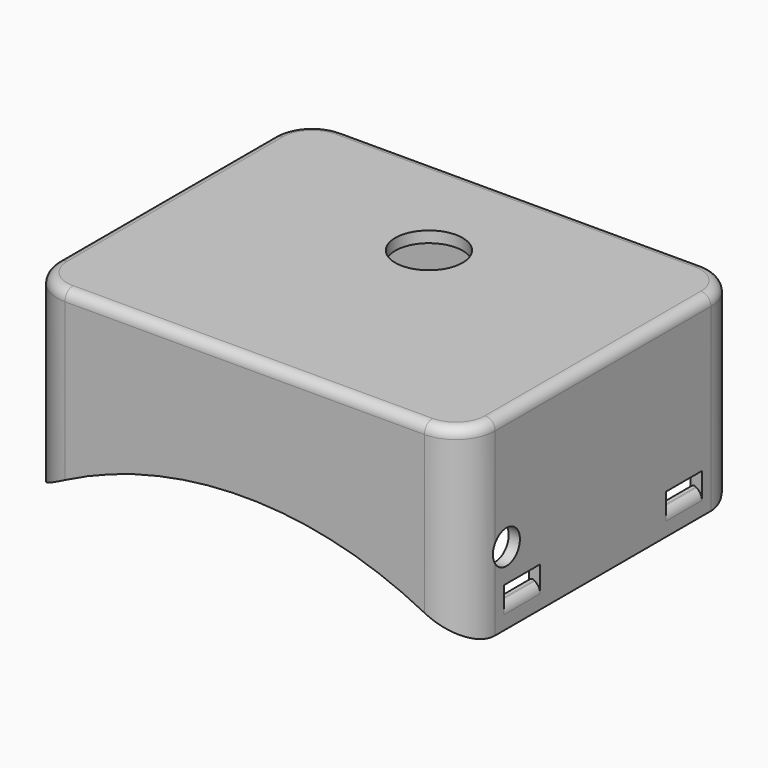
from build123d import *

# Parameters (mm, degrees)
CYLINDER004_R     = 36.5
CYLINDER004_DEPTH = 4
CYLINDER005_R     = 38
CYLINDER005_DEPTH = 4
CYLINDER003_R     = 36.5
CYLINDER003_DEPTH = 4
CYLINDER002_R     = 38
CYLINDER002_DEPTH = 4
CYLINDER001_R     = 1.5
CYLINDER001_DEPTH = 40
CYLINDER_R        = 35
CYLINDER_DEPTH    = 35
PAD_DEPTH         = 1
SKETCH001_R       = 3
HOLE_DEPTH        = 25
PAD001_DEPTH      = 18
FILLET_1_R        = 1
FILLET_2_R        = 0.9
FILLET001_R       = 1
FILLET002_R       = 0.3


with BuildPart() as cylinder004:
    # Cylinder004 → Cylinder004 (new body)
    with BuildSketch(Plane(origin=(0, 0, -45), x_dir=(1, 0, 0), z_dir=(0, -1, 0))):
        Circle(CYLINDER004_R)
    extrude(amount=CYLINDER004_DEPTH)


with BuildPart() as cut003:
    # Cylinder005 → Cylinder005 (new body)
    with BuildSketch(Plane(origin=(0, 0, -45), x_dir=(1, 0, 0), z_dir=(0, -1, 0))):
        Circle(CYLINDER005_R)
    extrude(amount=CYLINDER005_DEPTH)

    # Cut003: cut Cylinder004
    add(cylinder004.part, mode=Mode.SUBTRACT)


with BuildPart() as cut003_1:
    # Cut003 placement: moved
    add(cut003.part.moved(Location((0, -12, 0))))


with BuildPart() as cylinder003:
    # Cylinder003 → Cylinder003 (new body)
    with BuildSketch(Plane(origin=(0, 0, -45), x_dir=(1, 0, 0), z_dir=(0, -1, 0))):
        Circle(CYLINDER003_R)
    extrude(amount=CYLINDER003_DEPTH)


with BuildPart() as fusion:
    # Cylinder002 → Cylinder002 (new body)
    with BuildSketch(Plane(origin=(0, 0, -45), x_dir=(1, 0, 0), z_dir=(0, -1, 0))):
        Circle(CYLINDER002_R)
    extrude(amount=CYLINDER002_DEPTH)

    # Cut002: cut Cylinder003
    add(cylinder003.part, mode=Mode.SUBTRACT)


with BuildPart() as fusion_1:
    # Cut002 placement: moved
    add(fusion.part.moved(Location((0, 6, 0))))

    # Fusion: union Cut003
    add(cut003_1.part)


with BuildPart() as cylinder001:
    # Cylinder001 → Cylinder001 (new body)
    with BuildSketch(Plane(origin=(-20, -15.75, -9.5), x_dir=(0, 0, -1), z_dir=(1, 0, 0))):
        Circle(CYLINDER001_R)
    extrude(amount=CYLINDER001_DEPTH)


with BuildPart() as cylinder:
    # Cylinder → Cylinder (new body)
    with BuildSketch(Plane(origin=(0, 12, -45), x_dir=(1, 0, 0), z_dir=(0, -1, 0))):
        Circle(CYLINDER_R)
    extrude(amount=CYLINDER_DEPTH)


with BuildPart() as fillet002:
    # Sketch → Pad (new body)
    with BuildSketch(Plane.XY):
        with BuildLine():
            ThreePointArc((-16, 10.5), (-18.474874, 9.474874), (-19.5, 7))
            Line((-19.5, 7), (-19.5, -17))
            ThreePointArc((-19.5, -17), (-18.474874, -19.474874), (-16, -20.5))
            Line((-16, -20.5), (15.999994, -20.5))
            ThreePointArc((15.999994, -20.5), (18.474872, -19.474876), (19.5, -17))
            Line((19.5, -17), (19.5, 7))
            ThreePointArc((19.5, 7), (18.474874, 9.474874), (16, 10.5))
            Line((16, 10.5), (-16, 10.5))
        make_face()
    extrude(amount=PAD_DEPTH)

    # Sketch001 (on Face9 of Pad) → Hole (cut)
    with BuildSketch(Plane(origin=(0, 0, 0), x_dir=(1, 0, 0), z_dir=(0, 0, -1))):
        Circle(SKETCH001_R)
    extrude(amount=-HOLE_DEPTH, mode=Mode.SUBTRACT)

    # Sketch002 (on Face4 of Hole) → Pad001 (join)
    with BuildSketch(Plane(origin=(0, 0, 0), x_dir=(1, 0, 0), z_dir=(0, 0, -1))):
        with BuildLine():
            Line((-16, 20.5), (15.999994, 20.5))
            ThreePointArc((19.5, 17), (18.474872, 19.474876), (15.999994, 20.5))
            Line((19.5, 17), (19.5, -7))
            ThreePointArc((16, -10.5), (18.474874, -9.474874), (19.5, -7))
            Line((16, -10.5), (-16, -10.5))
            ThreePointArc((-19.5, -7), (-18.474874, -9.474874), (-16, -10.5))
            Line((-19.5, -7), (-19.5, 17))
            ThreePointArc((-16, 20.5), (-18.474874, 19.474874), (-19.5, 17))
        make_face()
        with BuildLine():
            ThreePointArc((-18.5, -7), (-17.767767, -8.767767), (-16, -9.5))
            Line((16, -9.5), (-16, -9.5))
            ThreePointArc((16, -9.5), (17.767767, -8.767767), (18.5, -7))
            Line((18.5, 17), (18.5, -7))
            ThreePointArc((18.5, 17), (17.767767, 18.767767), (16, 19.5))
            Line((-15.993973, 19.5), (16, 19.5))
            ThreePointArc((-15.993973, 19.5), (-17.767772, 18.767772), (-18.5, 16.993973))
            Line((-18.5, -7), (-18.5, 16.993973))
        make_face(mode=Mode.SUBTRACT)
    extrude(amount=PAD001_DEPTH)

    # Cut: cut Cylinder
    add(cylinder.part, mode=Mode.SUBTRACT)

    # Cut001: cut Cylinder001
    add(cylinder001.part, mode=Mode.SUBTRACT)

    # Fillet 1
    fillet_1_edges = [fillet002.edges().sort_by_distance(p)[0] for p in [
        (0.003014, -19.5, 0),
    ]]
    fillet(fillet_1_edges, radius=FILLET_1_R)

    # Fillet 2
    fillet_2_edges = [fillet002.edges().sort_by_distance(p)[0] for p in [
        (19.5, -5, 1),
    ]]
    fillet(fillet_2_edges, radius=FILLET_2_R)

    # Cut004: cut Fusion
    add(fusion_1.part, mode=Mode.SUBTRACT)

    # Fillet001
    fillet001_edges = [fillet002.edges().sort_by_distance(p)[0] for p in [
        (-19.5, 4, -14.145503),
        (-19.5, -14, -14.145503),
        (19.5, -14, -14.145503),
        (19.5, 4, -14.145503),
    ]]
    fillet(fillet001_edges, radius=FILLET001_R)

    # Fillet002
    fillet002_edges = [fillet002.edges().sort_by_distance(p)[0] for p in [
        (-18.5, 4, -13.535735),
        (-18.5, -14, -13.535735),
        (18.5, -14, -13.535735),
        (18.5, 4, -13.535735),
    ]]
    fillet(fillet002_edges, radius=FILLET002_R)


solid = fillet002.part
